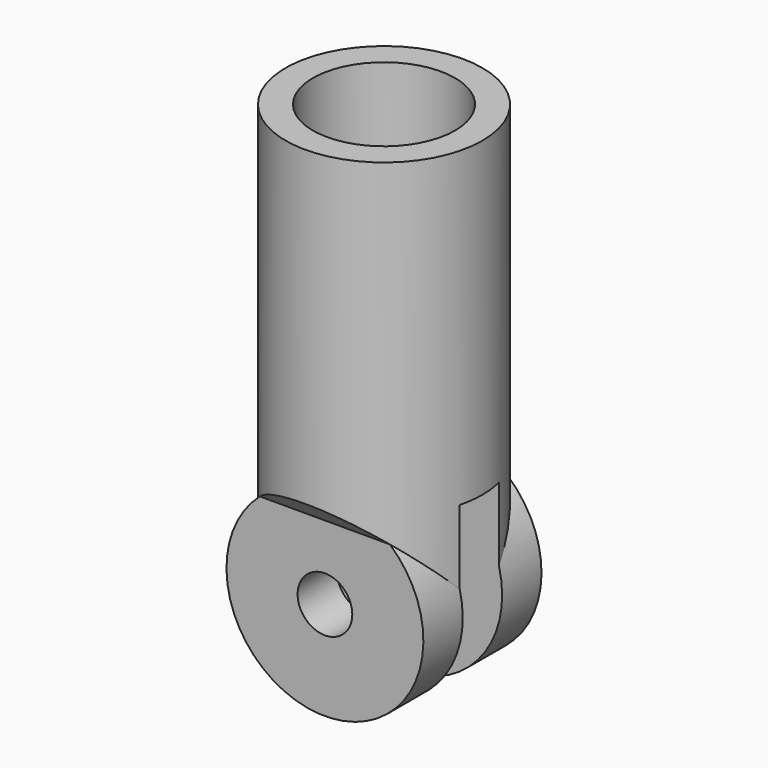
from build123d import *

# Parameters (mm, degrees)
F0_R     = 18
F0_R_2   = 13
F1_DEPTH = 75
F2_R     = 18
F3_DEPTH = 13.5
F4_W     = 9
F4_H     = 36
F5_DEPTH = 20
F6_R     = 5
F7_DEPTH = 20
F9_DEPTH = 14.5


with BuildPart() as f1:
    # F0 (on Top) → F1 (new body)
    with BuildSketch(Plane.XY):
        Circle(F0_R)
        Circle(F0_R_2, mode=Mode.SUBTRACT)
    extrude(amount=F1_DEPTH)

    # F2 (on Front) → F3 (join, symmetric)
    with BuildSketch(Plane.XZ):
        Circle(F2_R)
    extrude(amount=F3_DEPTH, both=True)

    # F4 (on Right) → F5 (cut, symmetric)
    with BuildSketch(Plane.YZ):
        Rectangle(F4_W, F4_H)
    extrude(amount=F5_DEPTH, both=True, mode=Mode.SUBTRACT)

    # F6 (on Front) → F7 (cut, symmetric)
    with BuildSketch(Plane.XZ):
        Circle(F6_R)
    extrude(amount=F7_DEPTH, both=True, mode=Mode.SUBTRACT)

    # F8 (on Right) → F9 (cut, symmetric)
    with BuildSketch(Plane.YZ):
        Polygon((-19.372148, 0), (-13.5, 0), (-13.5, 13.5), (-19.372148, 19.372148), align=None)
        Polygon((13.5, 13.5), (13.5, 0), (19.372148, 0), (19.372148, 19.372148), align=None)
    extrude(amount=F9_DEPTH, both=True, mode=Mode.SUBTRACT)


solid = f1.part
